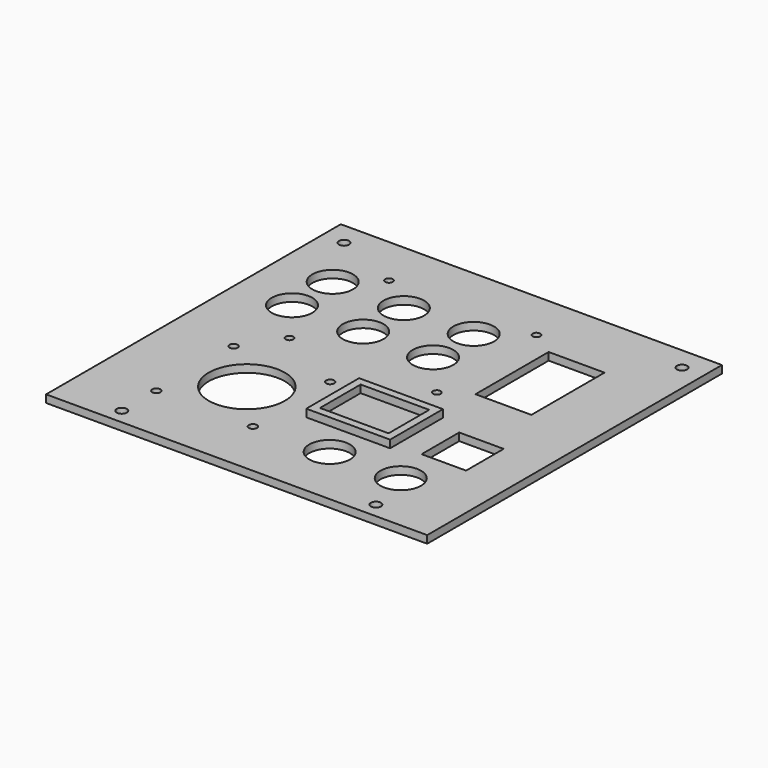
from build123d import *

# Parameters (mm, degrees)
SKETCH_W        = 150
SKETCH_H        = 145
PAD_DEPTH       = 3
SKETCH001_R     = 2
POCKET_DEPTH    = 5
SKETCH002_R     = 1.5
POCKET001_DEPTH = 3.001
SKETCH003_R     = 1.6
POCKET002_DEPTH = 3.001
SKETCH004_W     = 33
SKETCH004_H     = 26
PAD001_DEPTH    = 3
SKETCH005_W     = 27
SKETCH005_H     = 20
POCKET003_DEPTH = 3
SKETCH006_R     = 8
SKETCH006_R_2   = 15
SKETCH006_W     = 22
SKETCH006_H     = 36
SKETCH006_W_2   = 17.5
SKETCH006_H_2   = 18.5
POCKET004_DEPTH = 3.001


with BuildPart() as part:
    # Sketch → Pad (new body)
    with BuildSketch(Plane.XY):
        Rectangle(SKETCH_W, SKETCH_H)
    extrude(amount=PAD_DEPTH)

    # Sketch001 (on Face6 of Pad) → Pocket (cut)
    with BuildSketch(Plane.XY.offset(3)):
        with Locations((-50, -66.5)):
            Circle(SKETCH001_R)
        with Locations((50, -66.5)):
            Circle(SKETCH001_R)
        with Locations((-66.5, 63.5)):
            Circle(SKETCH001_R)
        with Locations((66.5, 63.5)):
            Circle(SKETCH001_R)
    extrude(amount=-POCKET_DEPTH, mode=Mode.SUBTRACT)

    # Sketch002 (on Face5 of Pocket) → Pocket001 (cut, through all)
    with BuildSketch(Plane.XY.offset(3)):
        with Locations((-40, 52.5)):
            Circle(SKETCH002_R)
        with Locations((18, 52.5)):
            Circle(SKETCH002_R)
        with Locations((-40, 3.5)):
            Circle(SKETCH002_R)
        with Locations((18, 3.5)):
            Circle(SKETCH002_R)
    extrude(amount=-POCKET001_DEPTH, mode=Mode.SUBTRACT)

    # Sketch003 (on Face5 of Pocket001) → Pocket002 (cut, through all)
    with BuildSketch(Plane.XY.offset(3)):
        with Locations((-50, -11.5)):
            Circle(SKETCH003_R)
        with Locations((-12, -11.5)):
            Circle(SKETCH003_R)
        with Locations((-50, -49.5)):
            Circle(SKETCH003_R)
        with Locations((-12, -49.5)):
            Circle(SKETCH003_R)
    extrude(amount=-POCKET002_DEPTH, mode=Mode.SUBTRACT)

    # Sketch004 (on Face5 of Pocket002) → Pad001 (join)
    with BuildSketch(Plane.XY.offset(3)):
        with Locations((13.5, -21.5)):
            Rectangle(SKETCH004_W, SKETCH004_H)
    extrude(amount=PAD001_DEPTH)

    # Sketch005 (on Face23 of Pad001) → Pocket003 (cut)
    with BuildSketch(Plane.XY.offset(6)):
        with Locations((13.5, -21.5)):
            Rectangle(SKETCH005_W, SKETCH005_H)
    extrude(amount=-POCKET003_DEPTH, mode=Mode.SUBTRACT)

    # Sketch006 (on Face5 of Pocket003) → Pocket004 (cut, through all)
    with BuildSketch(Plane.XY.offset(3)):
        with Locations((-25, 41)):
            Circle(SKETCH006_R)
        with Locations((2.5, 41)):
            Circle(SKETCH006_R)
        with Locations((-25, 21)):
            Circle(SKETCH006_R)
        with Locations((2.5, 21)):
            Circle(SKETCH006_R)
        with Locations((-30, -30)):
            Circle(SKETCH006_R_2)
        with Locations((17, -48)):
            Circle(SKETCH006_R)
        with Locations((45, -48)):
            Circle(SKETCH006_R)
        with Locations((-53, 41)):
            Circle(SKETCH006_R)
        with Locations((-53, 21)):
            Circle(SKETCH006_R)
        with Locations((39, 28)):
            Rectangle(SKETCH006_W, SKETCH006_H)
        with Locations((48.75, -22.25)):
            Rectangle(SKETCH006_W_2, SKETCH006_H_2)
    extrude(amount=-POCKET004_DEPTH, mode=Mode.SUBTRACT)


solid = part.part
